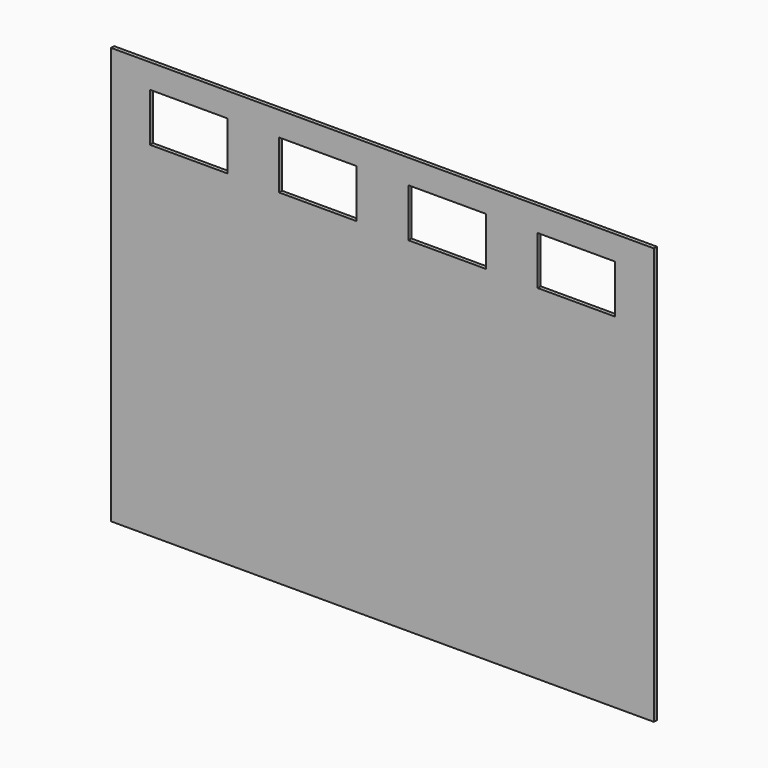
from build123d import *

# Parameters (mm, degrees)
SKETCH016_W         = 1422.4
SKETCH016_H         = 1092.2
PAD002_DEPTH        = 10.000005
SKETCH021_W         = 203.2
SKETCH021_H         = 127
POCKET018_DEPTH     = 10.0010050021
LINEARPATTERN_COUNT = 4
LINEARPATTERN_PITCH = 338.6666666667


with BuildPart() as part:
    # Sketch016 → Pad002 (new body)
    with BuildSketch(Plane.XZ):
        with Locations((762, 1092.2)):
            Rectangle(SKETCH016_W, SKETCH016_H)
    extrude(amount=PAD002_DEPTH)

    # Sketch021 → Pocket018 (cut, through all)
    with BuildSketch(Plane.XZ.offset(10.000005)):
        with Locations((254, 1511.3)):
            Rectangle(SKETCH021_W, SKETCH021_H)
    pocket018 = extrude(amount=-POCKET018_DEPTH, mode=Mode.SUBTRACT)

    # LinearPattern: Pocket018 ×4
    with Locations(*[(i * LINEARPATTERN_PITCH, 0, 0) for i in range(1, LINEARPATTERN_COUNT)]):
        add(pocket018, mode=Mode.SUBTRACT)


solid = part.part
